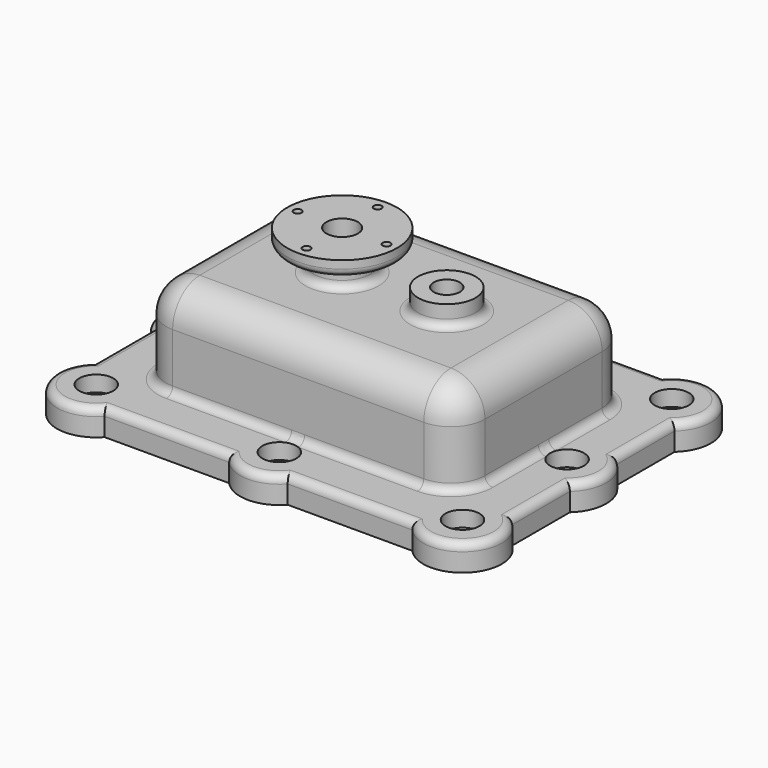
from build123d import *

# Parameters (mm, degrees)
F0_W            = 160
F0_H            = 120
F1_DEPTH        = 10
F2_R            = 15
F3_DEPTH        = 10
F5_DEPTH        = 45
F7_DEPTH        = 35
F10_R           = 21
F11_DEPTH       = 6
F12_R           = 11
F14_DEPTH       = 37
F17_D           = 12
F19_R           = 11
F20_DEPTH       = 18
F22_D           = 10
F25_D           = 6.4
F25_CBORE_D     = 13
F25_CBORE_DEPTH = 6
F26_R           = 13
F27_R           = 3
F28_R           = 3
F29_R           = 3
F31_D           = 3
F31_DEPTH       = 12
F31_TIP         = 0.9012909285


with BuildPart() as f1:
    # F0 (on Top) → F1 (new body)
    with BuildSketch(Plane.XY):
        Rectangle(F0_W, F0_H)
    extrude(amount=F1_DEPTH)

    # F2 (on face) → F3 (join, through all)
    with BuildSketch(Plane.XY.offset(10)):
        with Locations((-70, 50)):
            Circle(F2_R)
        with Locations((0, 50)):
            Circle(F2_R)
        with Locations((70, 50)):
            Circle(F2_R)
        with Locations((-70, 0)):
            Circle(F2_R)
        with Locations((70, 0)):
            Circle(F2_R)
        with Locations((-70, -50)):
            Circle(F2_R)
        with Locations((0, -50)):
            Circle(F2_R)
        with Locations((70, -50)):
            Circle(F2_R)
    extrude(amount=-F3_DEPTH)

    # F4 (on Top) → F5 (join)
    with BuildSketch(Plane.XY):
        with BuildLine():
            Line((48, 41), (-48, 41))
            ThreePointArc((-48, 41), (-57.1923881554, 37.1923881554), (-61, 28))
            Line((-61, 28), (-61, -28))
            ThreePointArc((-61, -28), (-57.1923881554, -37.1923881554), (-48, -41))
            Line((-48, -41), (48, -41))
            ThreePointArc((48, -41), (57.1923881554, -37.1923881554), (61, -28))
            Line((61, -28), (61, 28))
            ThreePointArc((61, 28), (57.1923881554, 37.1923881554), (48, 41))
        make_face()
    extrude(amount=F5_DEPTH)


with BuildPart() as f7:
    # F6 (on Top) → F7 (new body)
    with BuildSketch(Plane.XY):
        with BuildLine():
            Line((48, 31), (-48, 31))
            ThreePointArc((-48, 31), (-50.1213203436, 30.1213203436), (-51, 28))
            Line((-51, 28), (-51, -28))
            ThreePointArc((-51, -28), (-50.1213203436, -30.1213203436), (-48, -31))
            Line((-48, -31), (48, -31))
            ThreePointArc((48, -31), (50.1213203436, -30.1213203436), (51, -28))
            Line((51, -28), (51, 28))
            ThreePointArc((51, 28), (50.1213203436, 30.1213203436), (48, 31))
        make_face()
    extrude(amount=F7_DEPTH)


with BuildPart() as f1_1:
    add(f1.part)

    # F8: cut F7
    add(f7.part, mode=Mode.SUBTRACT)


with BuildPart() as f11:
    # F10 (on offset) → F11 (new body)
    with BuildSketch(Plane.XY.offset(60)):
        with Locations((-16, 0)):
            Circle(F10_R)
    extrude(amount=-F11_DEPTH)


with BuildPart() as f14:
    # F12 (on offset) → F14 (new body, through all)
    with BuildSketch(Plane.XY.offset(60)):
        with Locations((-16, 0)):
            Circle(F12_R)
    extrude(amount=-F14_DEPTH)


with BuildPart() as f1_2:
    add(f1_1.part)

    # F15: union F11, F14
    add(f11.part)
    add(f14.part)

    # F17 (through all)
    with Locations(Plane.XY.offset(60)):
        with Locations((-16, 0)):
            Hole(F17_D / 2)

    # F19 (on offset) → F20 (join, through all)
    with BuildSketch(Plane.XY.offset(53)):
        with Locations((24, 0)):
            Circle(F19_R)
    extrude(amount=-F20_DEPTH)

    # F22 (through all)
    with Locations(Plane.XY.offset(53)):
        with Locations((24, 0)):
            Hole(F22_D / 2)

    # F25 (through all)
    with Locations(Plane.XY.offset(10)):
        with Locations((-70, 50), (-70, 0), (-70, -50), (0, -50), (70, -50), (70, 0), (70, 50), (0, 50)):
            CounterBoreHole(F25_D / 2, F25_CBORE_D / 2, F25_CBORE_DEPTH)

    # F26
    f26_edges = [f1_2.edges().sort_by_distance(p)[0] for p in [
        (61, 0, 45),
    ]]
    fillet(f26_edges, radius=F26_R)

    # F27
    f27_edges = [f1_2.edges().sort_by_distance(p)[0] for p in [
        (13, 0, 45),
        (-37, 0, 54),
        (-27, 0, 45),
        (-27, 0, 54),
    ]]
    fillet(f27_edges, radius=F27_R)

    # F28
    f28_edges = [f1_2.edges().sort_by_distance(p)[0] for p in [
        (0, -41, 10),
        (80.606602, -60.606602, 10),
        (35, -60, 10),
        (0, -65, 10),
        (-35, -60, 10),
        (-80.606602, -60.606602, 10),
        (-80, -25, 10),
        (-85, 0, 10),
        (-80, 25, 10),
        (-80.606602, 60.606602, 10),
        (-35, 60, 10),
        (0, 65, 10),
        (35, 60, 10),
        (80.606602, 60.606602, 10),
        (80, 25, 10),
        (85, 0, 10),
        (80, -25, 10),
    ]]
    fillet(f28_edges, radius=F28_R)

    # F29
    f29_edges = [f1_2.edges().sort_by_distance(p)[0] for p in [
        (51, 0, 35),
        (-27, 0, 35),
        (-27, 0, 23),
    ]]
    fillet(f29_edges, radius=F29_R)

    # F31
    with Locations(Plane.XY.offset(60)):
        with Locations((-16, 17), (-33, 0), (-16, -17), (1, 0)):
            Hole(F31_D / 2, depth=F31_DEPTH)
            with Locations((0, 0, -(F31_DEPTH + F31_TIP / 2))):  # 118° drill point
                Cone(0, F31_D / 2, F31_TIP, mode=Mode.SUBTRACT)


solid = f1_2.part
